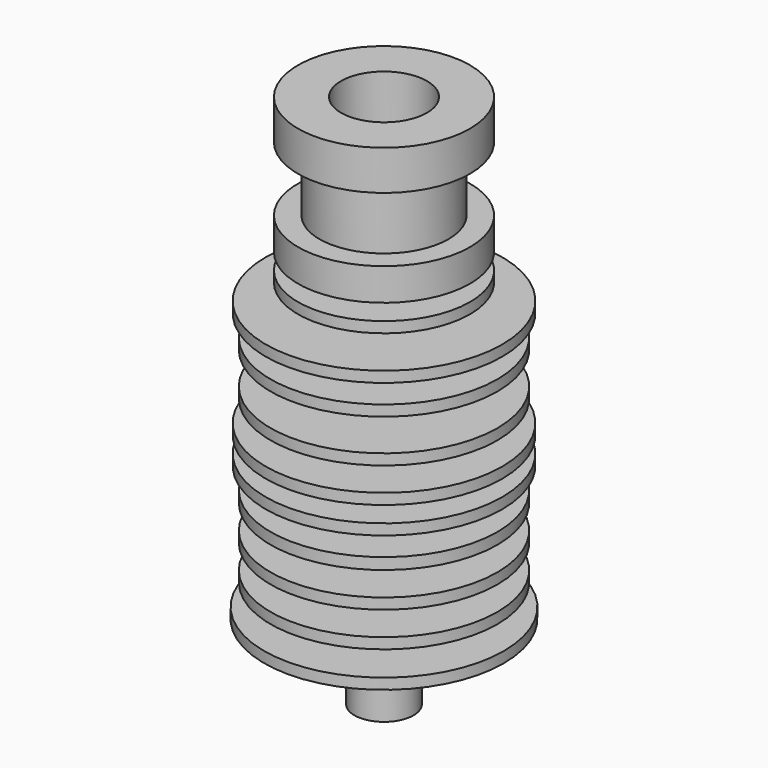
from build123d import *

# Parameters (mm, degrees)
F2_R     = 4
F3_DEPTH = 6.5


with BuildPart() as f1:
    # F0 (on Front) → F1 (revolve)
    with BuildSketch(Plane.XZ):
        Polygon((2.75, -7), (2.75, 0), (11.15, 0), (11.15, 1), (3.65, 1), (3.65, 3), (10.55, 3), (10.55, 4), (3.05, 4), (3.05, 6.25), (10.55, 6.25), (10.55, 7.25), (3.05, 7.25), (3.05, 9.5), (10.55, 9.5), (10.55, 10.557174), (3.5, 10.557174), (3.5, 12.557174), (11, 12.557174), (11, 13.557174), (7, 13.557174), (7, 15.057174), (11, 15.057174), (11, 16.057174), (3.5, 16.057174), (3.5, 18.057174), (10.55, 18.057174), (10.55, 19.057174), (3.05, 19.057174), (3.05, 22.057174), (10.55, 22.057174), (10.55, 23.057174), (3.5, 23.057174), (3.5, 25.057174), (11, 25.057174), (11, 26.057174), (4.5, 26.057174), (4.5, 27.557174), (8, 27.557174), (8, 28.557174), (4.5, 28.557174), (4.5, 30.057174), (8, 30.057174), (8, 33.057174), (6, 33.057174), (6, 39.057174), (8, 39.057174), (8, 42.757174), (0, 42.757174), (0, 0), (0, -7), align=None)
    revolve(axis=Axis((0, 0, 21.378587), (0, 0, -1)))

    # F2 (on face) → F3 (cut)
    with BuildSketch(Plane.XY.offset(42.757174)):
        Circle(F2_R)
    extrude(amount=-F3_DEPTH, mode=Mode.SUBTRACT)


solid = f1.part
